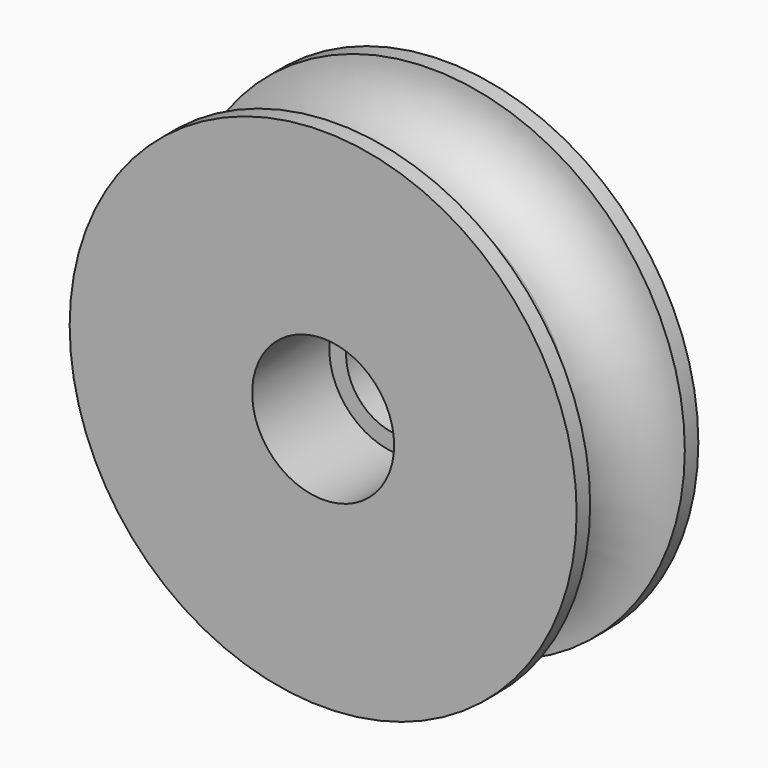
from build123d import *

# Parameters (mm, degrees)
F0_R       = 75
F1_DEPTH   = 22.5
F2_R       = 17.5
F5_R       = 21
F6_DEPTH   = 28.5
F7_R       = 16
F1_FACE1_R = 75
F8_DEPTH   = 45.001


with BuildPart() as f1:
    # F0 (on Front) → F1 (new body, symmetric)
    with BuildSketch(Plane.XZ):
        Circle(F0_R)
    extrude(amount=F1_DEPTH, both=True)

    # F2 (on Top) → F4 (revolve, cut)
    with BuildSketch(Plane.XY):
        with Locations((-75, 0)):
            Circle(F2_R)
    revolve(axis=Axis((0, 4.404310137, 0), (0, -1, 0)), mode=Mode.SUBTRACT)

    # F5 (on face) → F6 (cut)
    with BuildSketch(Plane.XZ.offset(22.5)):
        Circle(F5_R)
    extrude(amount=-F6_DEPTH, mode=Mode.SUBTRACT)

    # F7 (on face) + F1_face1 (on face) → F8 (cut, through all)
    with BuildSketch(Plane.XZ.offset(22.5)):
        Circle(F7_R)
    with BuildSketch(Plane(origin=(0, 22.5, 0), x_dir=(1, 0, 0), z_dir=(0, 1, 0))):
        Circle(F1_FACE1_R)
    extrude(amount=-F8_DEPTH, dir=(0, -1, 0), mode=Mode.SUBTRACT)


solid = f1.part
